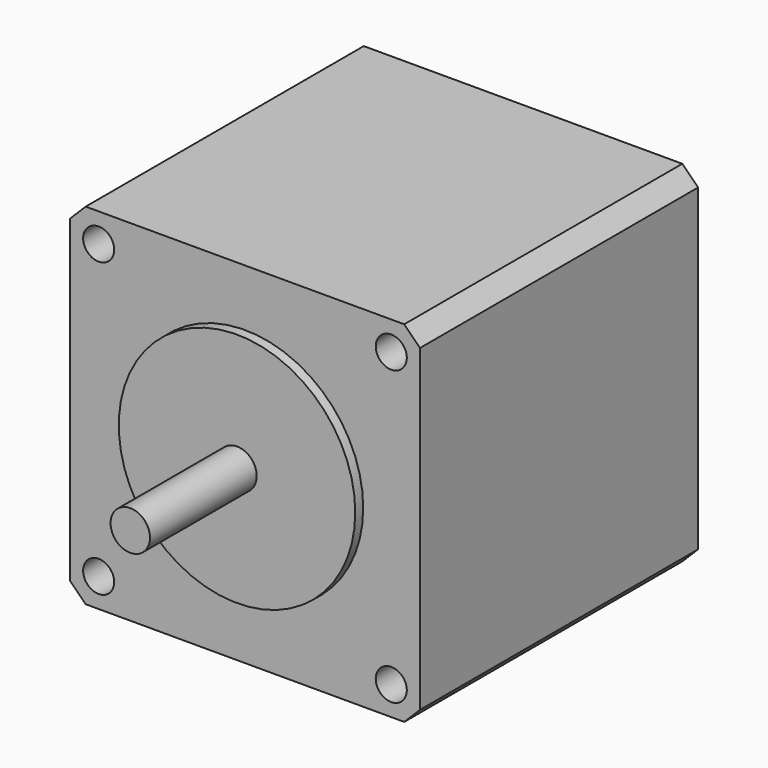
from build123d import *

# Parameters (mm, degrees)
F0_W     = 56.4
F0_H     = 56.4
F1_DEPTH = 56
F2_R     = 19.05
F3_DEPTH = 1.6
F4_R     = 3.175
F5_DEPTH = 21.5
F6_R     = 2.5
F7_DEPTH = 79.101
F8_SIZE  = 2.54


with BuildPart() as f1:
    # F0 (on Front) → F1 (new body)
    with BuildSketch(Plane.XZ):
        Rectangle(F0_W, F0_H)
    extrude(amount=F1_DEPTH)

    # F2 (on face) → F3 (join)
    with BuildSketch(Plane.XZ.offset(56)):
        Circle(F2_R)
    extrude(amount=F3_DEPTH)

    # F4 (on face) → F5 (join)
    with BuildSketch(Plane.XZ.offset(57.6)):
        Circle(F4_R)
    extrude(amount=F5_DEPTH)

    # F6 (on face) → F7 (cut, through all)
    with BuildSketch(Plane(origin=(0, 0, 0), x_dir=(-1, 0, 0), z_dir=(0, 1, 0))):
        with Locations((23.57, 23.57)):
            Circle(F6_R)
        with Locations((23.57, -23.57)):
            Circle(F6_R)
        with Locations((-23.57, -23.57)):
            Circle(F6_R)
        with Locations((-23.57, 23.57)):
            Circle(F6_R)
    extrude(amount=-F7_DEPTH, mode=Mode.SUBTRACT)

    # F8
    f8_edges = [f1.edges().sort_by_distance(p)[0] for p in [
        (28.2, -28, 28.2),
        (-28.2, -28, 28.2),
        (-28.2, -28, -28.2),
        (28.2, -28, -28.2),
    ]]
    chamfer(f8_edges, length=F8_SIZE)


solid = f1.part
